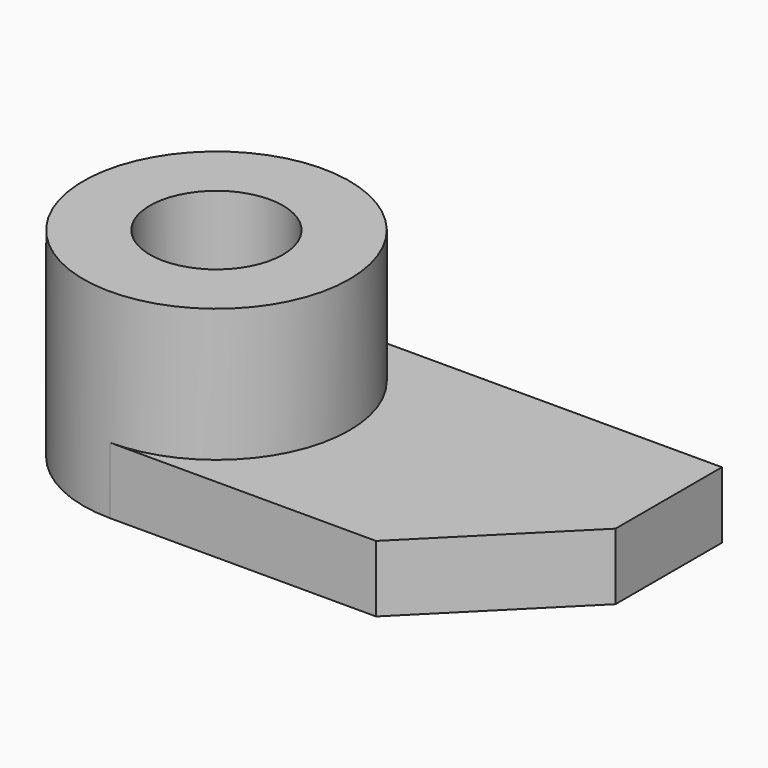
from build123d import *

# Parameters (mm, degrees)
F1_DEPTH = 6.35
F2_R     = 12.7
F2_R_2   = 6.35
F3_DEPTH = 19.05
F4_DEPTH = 25.4


with BuildPart() as f1:
    # F0 (on Top) → F1 (new body)
    with BuildSketch(Plane.XY):
        Polygon((0, 25.4), (0, 0), (25.4, 0), (38.1, 12.7), (38.1, 25.4), align=None)
    extrude(amount=F1_DEPTH)

    # F2 (on Top) → F3 (join)
    with BuildSketch(Plane.XY):
        with Locations((0, 12.7)):
            Circle(F2_R)
        with Locations((0, 12.7)):
            Circle(F2_R_2, mode=Mode.SUBTRACT)
    extrude(amount=F3_DEPTH)

    # F2 (on Top) → F4 (cut)
    with BuildSketch(Plane.XY):
        with Locations((0, 12.7)):
            Circle(F2_R_2)
    extrude(amount=F4_DEPTH, mode=Mode.SUBTRACT)


solid = f1.part
